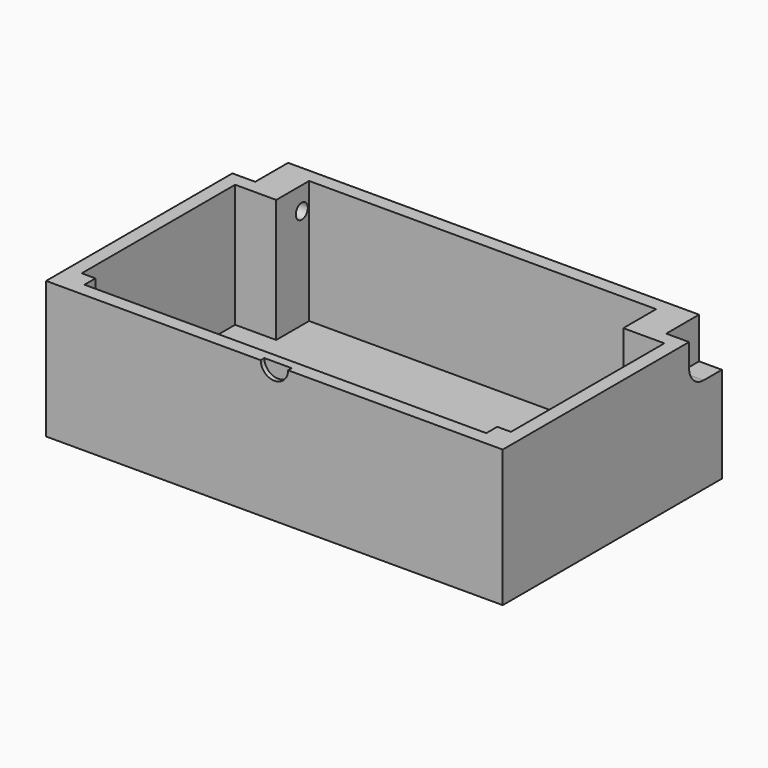
from build123d import *

# Parameters (mm, degrees)
F0_W      = 100
F0_H      = 60
F1_DEPTH  = 30
F2_T      = -3
F3_W      = 9
F3_H      = 9
F3_W_2    = 3
F3_H_2    = 3
F4_DEPTH  = 27
F5_R      = 1.65
F6_DEPTH  = 100.001
F7_R      = 1.65
F8_DEPTH  = 5
F9_R      = 1.65
F10_DEPTH = 5
F12_DEPTH = 1


with BuildPart() as f1:
    # F0 (on Top) → F1 (new body)
    with BuildSketch(Plane.XY):
        Rectangle(F0_W, F0_H)
    extrude(amount=F1_DEPTH)

    # F2
    f2_openings = [f1.faces().sort_by_distance(p)[0] for p in [
        (0, 0, 30),
    ]]
    offset(amount=F2_T, openings=f2_openings)

    # F3 (on face) → F4 (join)
    with BuildSketch(Plane.XY.offset(3)):
        with Locations((-42.5, 22.5)):
            Rectangle(F3_W, F3_H)
        with Locations((42.5, 22.5)):
            Rectangle(F3_W, F3_H)
        with Locations((45.5, -25.5)):
            Rectangle(F3_W_2, F3_H_2)
        with Locations((-45.5, -25.5)):
            Rectangle(F3_W_2, F3_H_2)
    extrude(amount=F4_DEPTH)

    # F5 (on face) → F6 (cut, through all)
    with BuildSketch(Plane.YZ.offset(50)):
        with Locations((25, 25)):
            Circle(F5_R)
    extrude(amount=-F6_DEPTH, mode=Mode.SUBTRACT)

    # F7 (on face) → F8 (cut)
    with BuildSketch(Plane.YZ.offset(50)):
        with BuildLine():
            ThreePointArc((25, 21), (27.8284271247, 22.1715728753), (29, 25))
            ThreePointArc((29, 25), (25, 29), (21, 25))
            ThreePointArc((21, 25), (22.1715728753, 22.1715728753), (25, 21))
        make_face()
        with Locations((25, 25)):
            Circle(F7_R, mode=Mode.SUBTRACT)
        with BuildLine():
            ThreePointArc((21, 25), (25, 29), (29, 25))
            ThreePointArc((29, 25), (27.8284271247, 22.1715728753), (25, 21))
            Line((25, 21), (30, 21))
            Line((30, 21), (30, 30))
            Line((30, 30), (21, 30))
            Line((21, 30), (21, 25))
        make_face()
    extrude(amount=-F8_DEPTH, mode=Mode.SUBTRACT)

    # F9 (on face) → F10 (cut)
    with BuildSketch(Plane(origin=(-50, 0, 0), x_dir=(0, -1, 0), z_dir=(-1, 0, 0))):
        with BuildLine():
            ThreePointArc((-25, 21), (-22.1715728753, 22.1715728753), (-21, 25))
            ThreePointArc((-21, 25), (-27.8284271247, 27.8284271247), (-25, 21))
        make_face()
        with Locations((-25, 25)):
            Circle(F9_R, mode=Mode.SUBTRACT)
        with BuildLine():
            ThreePointArc((-25, 21), (-27.8284271247, 27.8284271247), (-21, 25))
            Line((-21, 25), (-21, 30))
            Line((-21, 30), (-30, 30))
            Line((-30, 30), (-30, 21))
            Line((-30, 21), (-25, 21))
        make_face()
    extrude(amount=-F10_DEPTH, mode=Mode.SUBTRACT)

    # F11 (on face) → F12 (cut)
    with BuildSketch(Plane.XZ.offset(30)):
        with BuildLine():
            ThreePointArc((-3, 30), (0, 27), (3, 30))
            Line((3, 30), (-3, 30))
        make_face()
    extrude(amount=-F12_DEPTH, mode=Mode.SUBTRACT)


solid = f1.part
